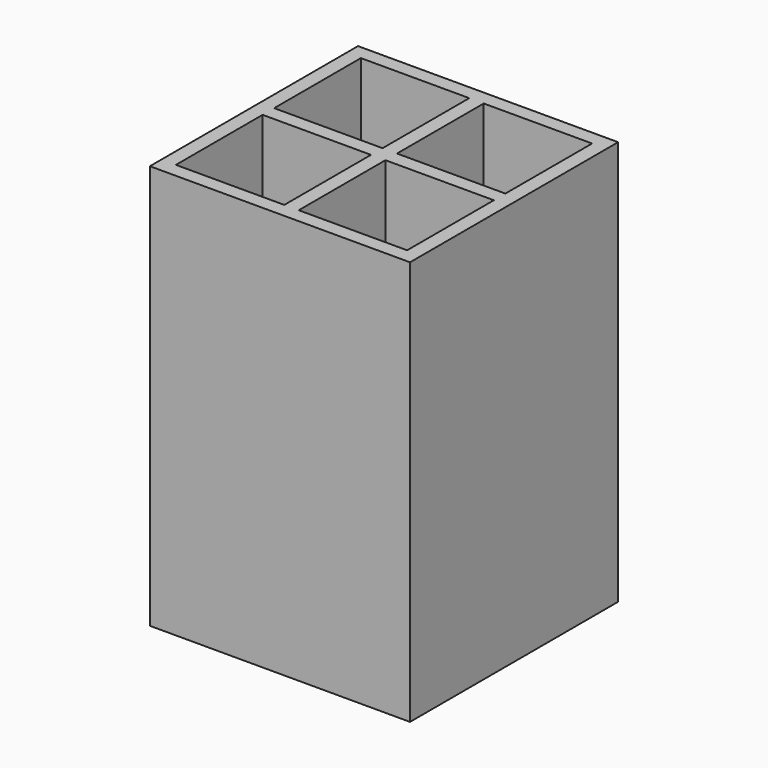
from build123d import *

# Parameters (mm, degrees)
F0_W     = 57.15
F0_H     = 88.9
F1_DEPTH = 57.15
F2_W     = 23.8125
F2_H     = 23.8125
F6_DEPTH = 44.451
F3_W     = 23.8125
F3_H     = 23.8125
F7_DEPTH = 44.451
F4_W     = 23.8125
F4_H     = 23.8125
F8_DEPTH = 44.451
F5_W     = 23.8125
F5_H     = 23.8125
F9_DEPTH = 44.451


with BuildPart() as f1:
    # F0 (on Front) → F1 (new body)
    with BuildSketch(Plane.XZ):
        Rectangle(F0_W, F0_H)
    extrude(amount=F1_DEPTH)

    # F2 (on Top) → F6 (cut, through all)
    with BuildSketch(Plane.XY):
        with Locations((-13.49375, -15.08125)):
            Rectangle(F2_W, F2_H)
    extrude(amount=F6_DEPTH, mode=Mode.SUBTRACT)

    # F3 (on Top) → F7 (cut, through all)
    with BuildSketch(Plane.XY):
        with Locations((-13.49375, -42.06875)):
            Rectangle(F3_W, F3_H)
    extrude(amount=F7_DEPTH, mode=Mode.SUBTRACT)

    # F4 (on Top) → F8 (cut, through all)
    with BuildSketch(Plane.XY):
        with Locations((13.49375, -15.08125)):
            Rectangle(F4_W, F4_H)
    extrude(amount=F8_DEPTH, mode=Mode.SUBTRACT)

    # F5 (on Top) → F9 (cut, through all)
    with BuildSketch(Plane.XY):
        with Locations((13.49375, -42.06875)):
            Rectangle(F5_W, F5_H)
    extrude(amount=F9_DEPTH, mode=Mode.SUBTRACT)


solid = f1.part
